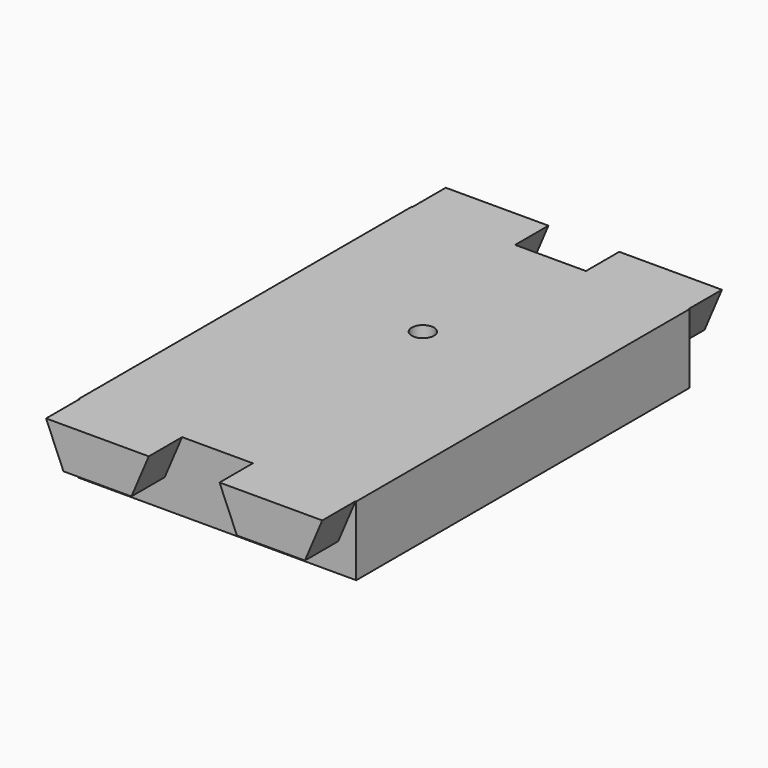
from build123d import *

# Parameters (mm, degrees)
SKETCH_W     = 40
SKETCH_H     = 60
PAD_DEPTH    = 10
PAD001_DEPTH = 6
PAD002_DEPTH = 6
SKETCH003_R  = 1.6
POCKET_DEPTH = 10


with BuildPart() as part:
    # Sketch → Pad (new body)
    with BuildSketch(Plane.XY):
        with Locations((20, 30)):
            Rectangle(SKETCH_W, SKETCH_H)
    extrude(amount=PAD_DEPTH)

    # Sketch001 (on Face3 of Pad) → Pad001 (join)
    with BuildSketch(Plane.XZ):
        Polygon((0.1, 10), (14.9, 10), (12.4, 4.1), (2.6, 4.1), align=None)
        Polygon((25.1, 10), (39.9, 10), (37.4, 4.1), (27.6, 4.1), align=None)
    extrude(amount=PAD001_DEPTH)

    # Sketch002 (on Face1 of Pad001) → Pad002 (join)
    with BuildSketch(Plane(origin=(0, 60, 0), x_dir=(-1, 0, 0), z_dir=(0, 1, 0))):
        Polygon((-39.9, 10), (-25.1, 10), (-27.6, 4.1), (-37.4, 4.1), align=None)
        Polygon((-14.9, 10), (-0.1, 10), (-2.6, 4.1), (-12.4, 4.1), align=None)
    extrude(amount=PAD002_DEPTH)

    # Sketch003 (on Face4 of Pad002) → Pocket (cut)
    with BuildSketch(Plane.XY.offset(10)):
        with Locations((20, 37)):
            Circle(SKETCH003_R)
    extrude(amount=-POCKET_DEPTH, mode=Mode.SUBTRACT)


solid = part.part
